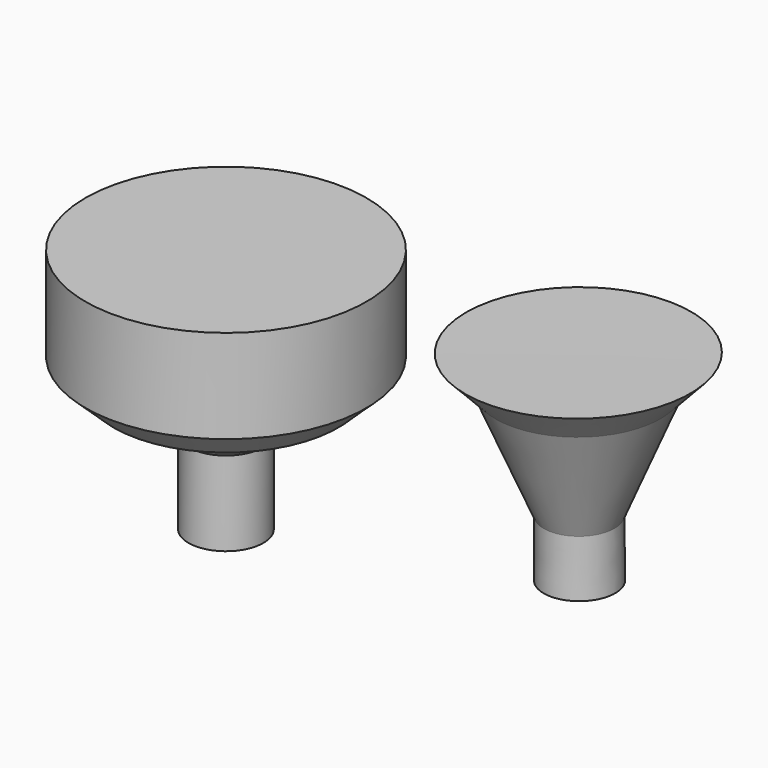
from build123d import *


with BuildPart() as f1:
    # F0 (on Front) → F1 (revolve)
    with BuildSketch(Plane.XZ):
        Polygon((0, -14.9046241604), (0, 37.6618508995), (-30.0433542579, 37.6618508995), (-30.0433542579, 17.6618508995), (-24.0346863866, 12.0173413306), (-14.9050139795, 8.8677914469), (-8, 3.0953758396), (-8, -14.9046241604), align=None)
    revolve(axis=Axis((0, 0, 11.3786133695), (0, 0, -1)))


with BuildPart() as f3:
    # F2 (on Front) → F3 (revolve)
    with BuildSketch(Plane.XZ):
        Polygon((67.9741203785, 0), (75.5894780159, 0), (75.3074288368, 42.589597404), (51.3331517577, 42.589597404), (57.8203089535, 35.8203873038), (67.9741203785, 12.1281621978), align=None)
    revolve(axis=Axis((75.4484534264, 0, 21.294798702), (0.0066223447, 0, -0.999978072)))


solid = Compound([f1.part, f3.part])
